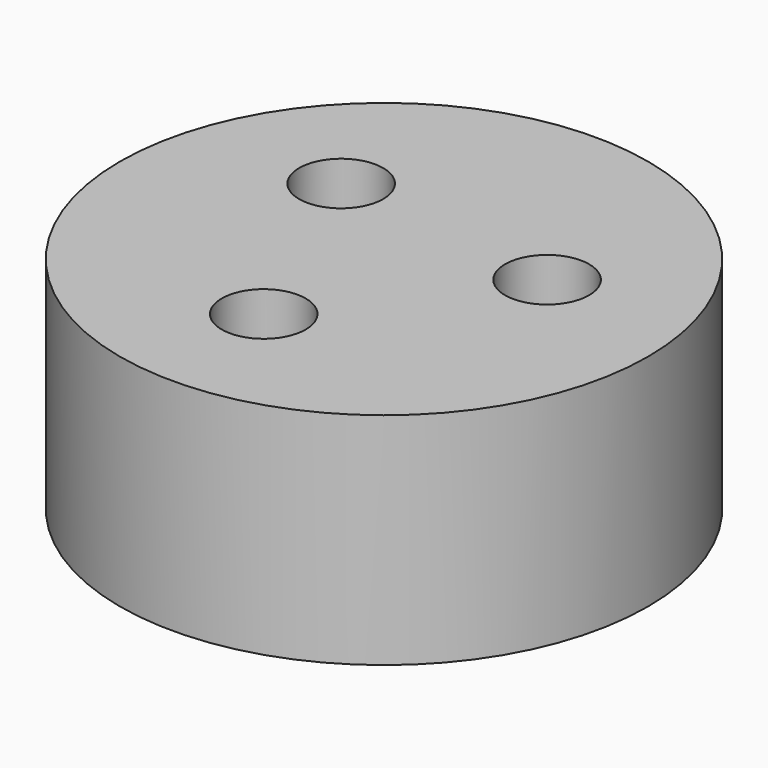
from build123d import *

# Parameters (mm, degrees)
F0_R     = 30.50011
F0_R_2   = 4.852788
F1_DEPTH = 25.4


with BuildPart() as f1:
    # F0 (on Top) → F1 (new body)
    with BuildSketch(Plane.XY):
        Circle(F0_R)
        with Locations((-1.771102, -15.14686)):
            Circle(F0_R_2, mode=Mode.SUBTRACT)
        with Locations((-12.232015, 9.10725)):
            Circle(F0_R_2, mode=Mode.SUBTRACT)
        with Locations((14.003117, 6.03961)):
            Circle(F0_R_2, mode=Mode.SUBTRACT)
    extrude(amount=F1_DEPTH)


solid = f1.part
